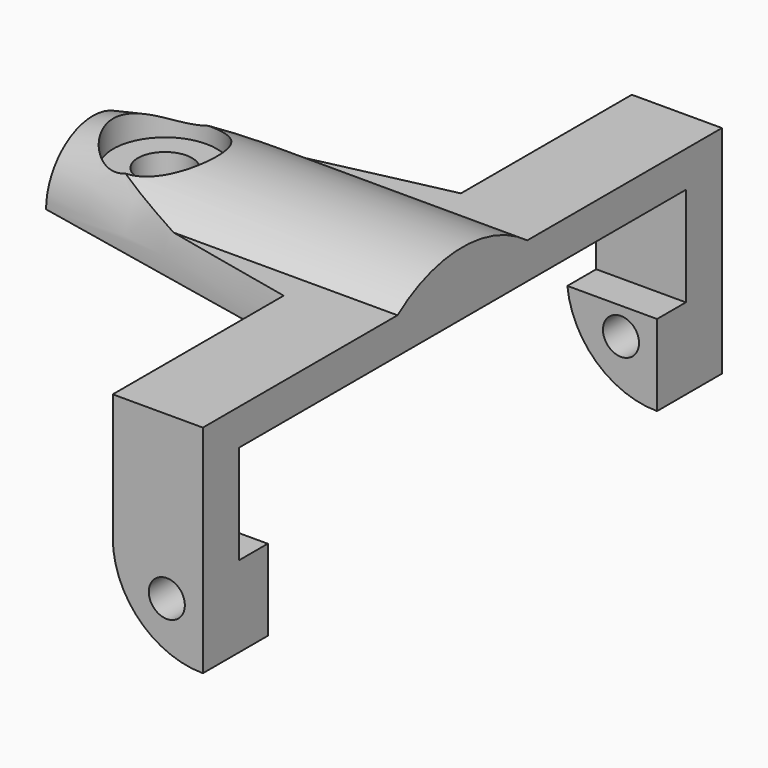
from build123d import *

# Parameters (mm, degrees)
BOX004_W          = 42
BOX004_H          = 82
BOX004_DEPTH      = 14
CYLINDER017_W     = 10
CYLINDER017_H     = 87
CYLINDER017_ANGLE = 90
CYLINDER018_R     = 15
CYLINDER018_DEPTH = 42
CYLINDER014_R     = 5.75
CYLINDER014_DEPTH = 10
CYLINDER013_R     = 3
CYLINDER013_DEPTH = 10
CYLINDER016_R     = 2
CYLINDER016_DEPTH = 94
CONE_ANGLE        = 180
CYLINDER001_W     = 10
CYLINDER001_H     = 5
CYLINDER001_ANGLE = 90
BOX002_W          = 10
BOX002_H          = 54
BOX002_DEPTH      = 11
BOX001_W          = 10
BOX001_H          = 62
BOX001_DEPTH      = 11
BOX_W             = 10
BOX_H             = 72
BOX_DEPTH         = 24
CYLINDER_W        = 10
CYLINDER_H        = 5
CYLINDER_ANGLE    = 90


with BuildPart() as include:
    # Box004 → Box004 (new body)
    with BuildSketch(Plane(origin=(-31, -36, 55), x_dir=(1, 0, 0), z_dir=(0, 0, 1))):
        with Locations((21, 41)):
            Rectangle(BOX004_W, BOX004_H)
    extrude(amount=BOX004_DEPTH)


with BuildPart() as include001:
    # Cylinder017 → Cylinder017 (revolve)
    with BuildSketch(Plane(origin=(10, -40.75, 55), x_dir=(0, 0, -1), z_dir=(1, 0, 0))):
        with Locations((5, 43.5)):
            Rectangle(CYLINDER017_W, CYLINDER017_H)
    revolve(axis=Axis((10, -40.75, 55), (0, 1, 0)), revolution_arc=CYLINDER017_ANGLE)


with BuildPart() as include002:
    # Cylinder018 → Cylinder018 (new body)
    with BuildSketch(Plane(origin=(-31, 0, 57), x_dir=(0, 1, 0), z_dir=(1, 0, 0))):
        Circle(CYLINDER018_R)
    extrude(amount=CYLINDER018_DEPTH)

    # Fusion005: union include, include001
    add(include.part)
    add(include001.part)


with BuildPart() as obj1:
    # Cylinder014 → Cylinder014 (new body)
    with BuildSketch(Plane(origin=(-23, 0, 69), x_dir=(1, 0, 0), z_dir=(0, 0, 1))):
        Circle(CYLINDER014_R)
    extrude(amount=CYLINDER014_DEPTH)


with BuildPart() as fusion003:
    # Cylinder013 → Cylinder013 (new body)
    with BuildSketch(Plane(origin=(-23, 0, 65), x_dir=(1, 0, 0), z_dir=(0, 0, 1))):
        Circle(CYLINDER013_R)
    extrude(amount=CYLINDER013_DEPTH)

    # Fusion003: union obj1
    add(obj1.part)


with BuildPart() as obj2:
    # Cylinder016 → Cylinder016 (new body)
    with BuildSketch(Plane(origin=(6, -47.35, 51), x_dir=(1, 0, 0), z_dir=(0, 1, 0))):
        Circle(CYLINDER016_R)
    extrude(amount=CYLINDER016_DEPTH)


with BuildPart() as cone:
    # Cone → Cone (revolve)
    with BuildSketch(Plane(origin=(10, 0, 65), x_dir=(0, -1, 0), z_dir=(0, 0, -1))):
        Polygon((0, 0), (15, 0), (6.5, 41), (0, 41), align=None)
    revolve(axis=Axis((10, 0, 65), (-1, 0, 0)), revolution_arc=CONE_ANGLE)


with BuildPart() as cylinder001:
    # Cylinder001 → Cylinder001 (revolve)
    with BuildSketch(Plane(origin=(10, -31, 55), x_dir=(-1, 0, 0), z_dir=(0, 0, 1))):
        with Locations((5, 2.5)):
            Rectangle(CYLINDER001_W, CYLINDER001_H)
    revolve(axis=Axis((10, -31, 55), (0, -1, 0)), revolution_arc=CYLINDER001_ANGLE)


with BuildPart() as in001:
    # Box002 → Box002 (new body)
    with BuildSketch(Plane(origin=(0, -27, 45), x_dir=(1, 0, 0), z_dir=(0, 0, 1))):
        with Locations((5, 27)):
            Rectangle(BOX002_W, BOX002_H)
    extrude(amount=BOX002_DEPTH)


with BuildPart() as in002:
    # Box001 → Box001 (new body)
    with BuildSketch(Plane(origin=(0, -31, 54), x_dir=(1, 0, 0), z_dir=(0, 0, 1))):
        with Locations((5, 31)):
            Rectangle(BOX001_W, BOX001_H)
    extrude(amount=BOX001_DEPTH)

    # Fusion: union in001
    add(in001.part)


with BuildPart() as cut:
    # Box → Box (new body)
    with BuildSketch(Plane(origin=(0, -36, 45), x_dir=(1, 0, 0), z_dir=(0, 0, 1))):
        with Locations((5, 36)):
            Rectangle(BOX_W, BOX_H)
    extrude(amount=BOX_DEPTH)

    # Cut: cut in002
    add(in002.part, mode=Mode.SUBTRACT)


with BuildPart() as common:
    # Cylinder → Cylinder (revolve)
    with BuildSketch(Plane(origin=(10, 31, 55), x_dir=(0, 0, -1), z_dir=(1, 0, 0))):
        with Locations((5, 2.5)):
            Rectangle(CYLINDER_W, CYLINDER_H)
    revolve(axis=Axis((10, 31, 55), (0, 1, 0)), revolution_arc=CYLINDER_ANGLE)

    # Fusion001: union Cylinder001, Cut
    add(cylinder001.part)
    add(cut.part)

    # Fusion004: union Cone
    add(cone.part)

    # Cut001: cut obj2
    add(obj2.part, mode=Mode.SUBTRACT)

    # Cut002: cut Fusion003
    add(fusion003.part, mode=Mode.SUBTRACT)

    # Common: intersect include002
    add(include002.part, mode=Mode.INTERSECT)


solid = common.part
